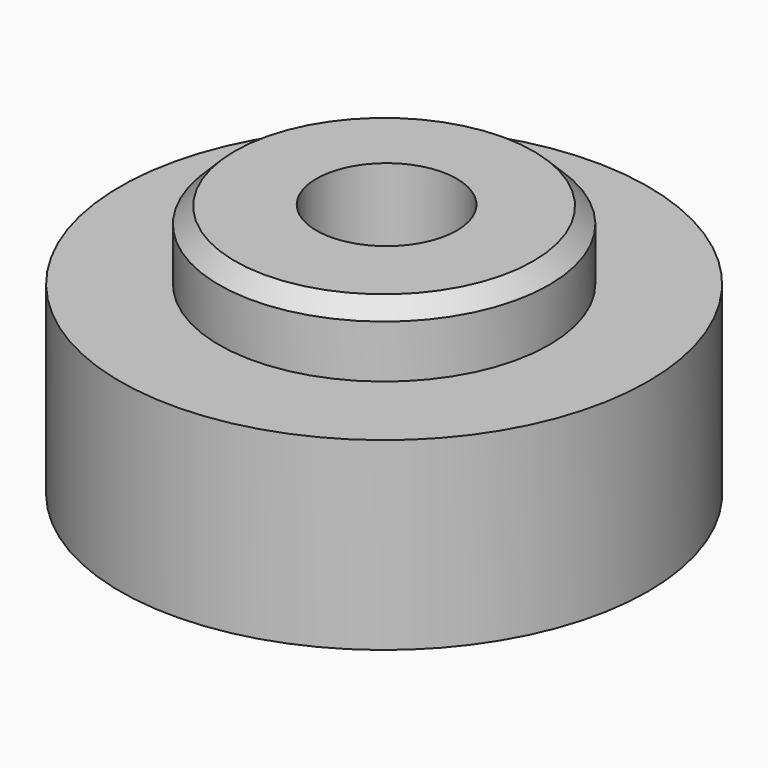
from build123d import *

# Parameters (mm, degrees)
F0_R     = 12.7
F0_R_2   = 10.16
F0_R_3   = 7.9375
F0_R_4   = 3.3782
F1_DEPTH = 8.89
F2_DEPTH = 12.192
F3_DEPTH = 25.4
F4_DEPTH = 2.54
F5_SIZE  = 0.762
F7_DEPTH = 7.62


with BuildPart() as f1:
    # F0 (on Top) → F1 (new body)
    with BuildSketch(Plane.XY):
        Circle(F0_R)
        Circle(F0_R_2, mode=Mode.SUBTRACT)
        Circle(F0_R_2)
        Circle(F0_R_3, mode=Mode.SUBTRACT)
        Circle(F0_R_3)
        with Locations((0, 0.150276348)):
            Circle(F0_R_4, mode=Mode.SUBTRACT)
        with Locations((0, 0.150276348)):
            Circle(F0_R_4)
    extrude(amount=F1_DEPTH)

    # F0 (on Top) → F2 (join)
    with BuildSketch(Plane.XY):
        Circle(F0_R_3)
        with Locations((0, 0.150276348)):
            Circle(F0_R_4, mode=Mode.SUBTRACT)
        with Locations((0, 0.150276348)):
            Circle(F0_R_4)
    extrude(amount=F2_DEPTH)

    # F0 (on Top) → F3 (cut)
    with BuildSketch(Plane.XY):
        with Locations((0, 0.150276348)):
            Circle(F0_R_4)
    extrude(amount=F3_DEPTH, mode=Mode.SUBTRACT)

    # F0 (on Top) → F4 (cut)
    with BuildSketch(Plane.XY):
        Circle(F0_R_2)
        Circle(F0_R_3, mode=Mode.SUBTRACT)
        Circle(F0_R_3)
        with Locations((0, 0.150276348)):
            Circle(F0_R_4, mode=Mode.SUBTRACT)
    extrude(amount=F4_DEPTH, mode=Mode.SUBTRACT)

    # F5
    f5_edges = [f1.edges().sort_by_distance(p)[0] for p in [
        (-7.9375, 0, 12.192),
    ]]
    chamfer(f5_edges, length=F5_SIZE)

    # F6 (on Top) → F7 (cut)
    with BuildSketch(Plane.XY):
        Polygon((3.1749068653, 5.4991), (-3.1749068653, 5.4991), (-6.3498137306, 0), (-3.1749068653, -5.4991), (3.1749068653, -5.4991), (6.3498137306, 0), align=None)
    extrude(amount=F7_DEPTH, mode=Mode.SUBTRACT)


solid = f1.part
